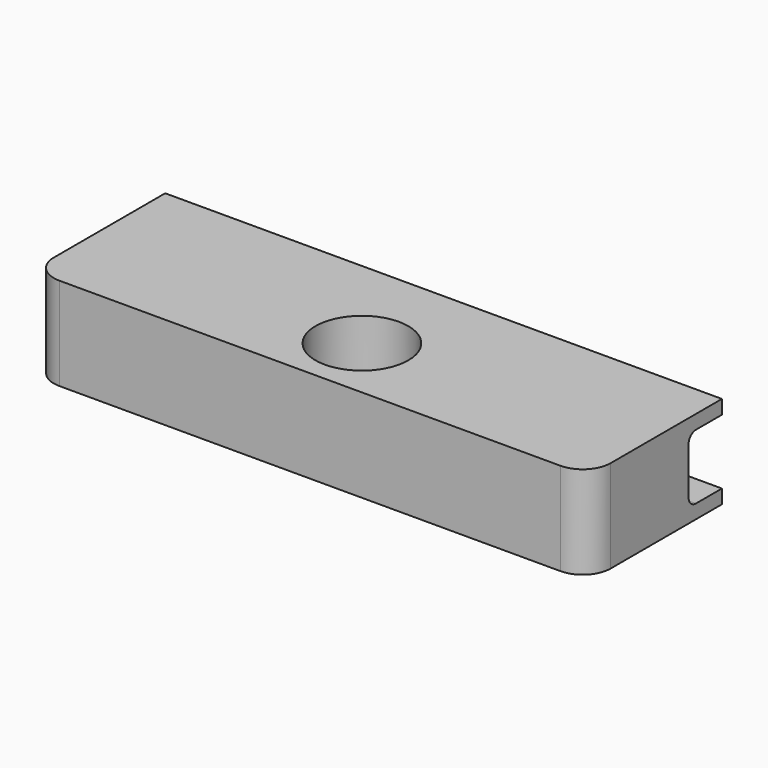
from build123d import *

# Parameters (mm, degrees)
F0_W     = 60
F0_H     = 18
F0_R     = 5
F1_DEPTH = 10
F2_R     = 3
F3_W     = 60
F3_H     = 7
F4_DEPTH = 4.5
F5_R     = 1


with BuildPart() as f1:
    # F0 (on Top) → F1 (new body)
    with BuildSketch(Plane.XY):
        with Locations((0, -9)):
            Rectangle(F0_W, F0_H)
        with Locations((0, -11)):
            Circle(F0_R, mode=Mode.SUBTRACT)
    extrude(amount=F1_DEPTH)

    # F2
    f2_edges = [f1.edges().sort_by_distance(p)[0] for p in [
        (-30, -18, 5),
        (30, -18, 5),
    ]]
    fillet(f2_edges, radius=F2_R)

    # F3 (on face) → F4 (cut)
    with BuildSketch(Plane(origin=(0, 0, 0), x_dir=(-1, 0, 0), z_dir=(0, 1, 0))):
        with Locations((0, 5)):
            Rectangle(F3_W, F3_H)
        with Locations((0, 5)):
            Rectangle(F3_W, F3_H)
    extrude(amount=-F4_DEPTH, mode=Mode.SUBTRACT)

    # F5
    f5_edges = [f1.edges().sort_by_distance(p)[0] for p in [
        (0, -4.5, 8.5),
        (0, -4.5, 1.5),
    ]]
    fillet(f5_edges, radius=F5_R)


solid = f1.part
